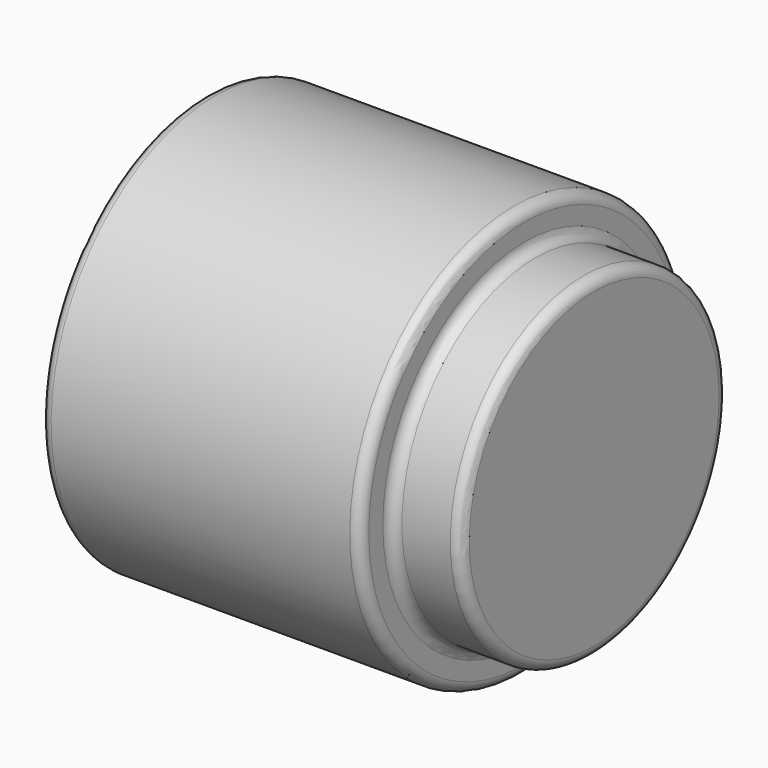
from build123d import *

# Parameters (mm, degrees)
F2_R = 0.1


with BuildPart() as f1:
    # F0 (on Front) → F1 (revolve)
    with BuildSketch(Plane.XZ):
        Polygon((1.7273294695, -0.8562160147), (4.4867754914, -0.8562160147), (4.7451336868, -0.8562160147), (4.7451336868, -0.4715703544), (4.7451336868, -0.1062160147), (1.7273294695, -0.1062160147), align=None)
        with BuildLine():
            Line((4.7451336868, -0.8755073351), (4.7451336868, -2.0441274822))
            Line((4.7451336868, -2.0441274822), (5.0729163922, -2.0441274822))
            ThreePointArc((5.0729163922, -2.0441274822), (5.2045005663, -1.8783684928), (5.4006990977, -1.7990175402))
            Line((5.4006990977, -1.7990175402), (5.4006990977, -0.4715703544))
            Line((5.4006990977, -0.4715703544), (4.7451336868, -0.4715703544))
            Line((4.7451336868, -0.4715703544), (4.7451336868, -0.8562160147))
            Line((4.7451336868, -0.8562160147), (4.7451336868, -0.8755073351))
        make_face()
        Polygon((1.7273294695, -0.8562160147), (4.4867754914, -0.8562160147), (4.7451336868, -0.8562160147), (4.7451336868, -0.4715703544), (4.7451336868, -0.1062160147), (1.7273294695, -0.1062160147), align=None)
        Polygon((4.4867754914, -0.8562160147), (4.4867754914, -2.0441274822), (4.7451336868, -2.0441274822), (4.7451336868, -0.8755073351), (4.7451336868, -0.8562160147), align=None)
        with BuildLine():
            ThreePointArc((5.4006990977, -1.7990175402), (5.2045005663, -1.8783684928), (5.0729163922, -2.0441274822))
            Line((5.0729163922, -2.0441274822), (5.4006990977, -2.0441274822))
            Line((5.4006990977, -2.0441274822), (5.4006990977, -1.7990175402))
        make_face()
    revolve(axis=Axis((-1.1655114821, 0, -2.0441274822), (1, 0, 0)))

    # F2
    f2_edges = [f1.edges().sort_by_distance(p)[0] for p in [
        (4.745134, 0, -3.616685),
        (5.400699, 0, -3.616685),
        (1.727329, 0, -3.982039),
        (1.727329, 0, -3.232039),
        (4.486775, 0, -3.232039),
        (4.745134, 0, -3.982039),
    ]]
    fillet(f2_edges, radius=F2_R)


solid = f1.part
